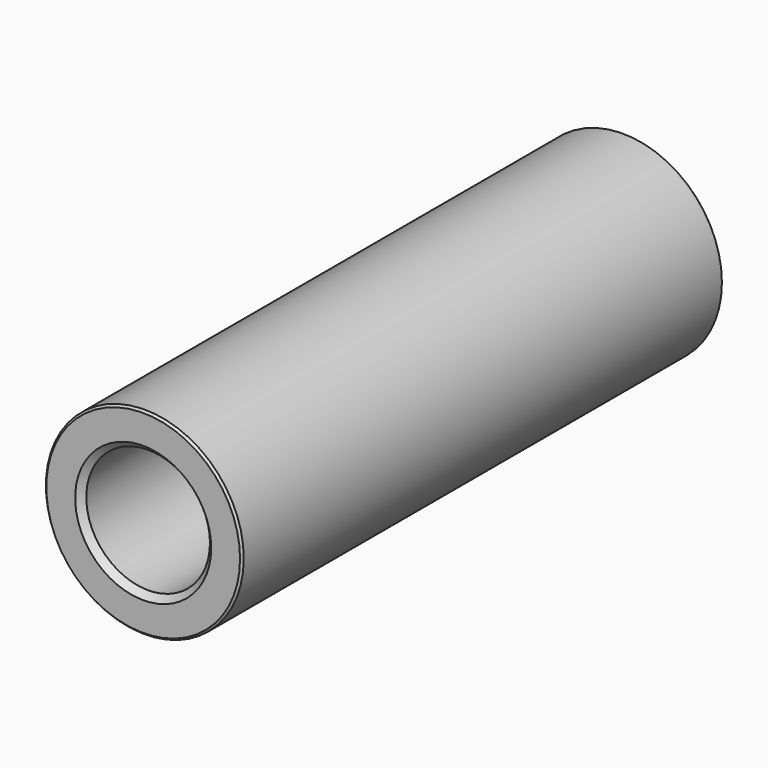
from build123d import *

# Parameters (mm, degrees)
F0_R     = 12
F0_R_2   = 7.5
F1_DEPTH = 73
F2_SIZE  = 0.25
F3_SIZE  = 0.75


with BuildPart() as f1:
    # F0 (on Front) → F1 (new body)
    with BuildSketch(Plane.XZ):
        Circle(F0_R)
        Circle(F0_R_2, mode=Mode.SUBTRACT)
    extrude(amount=F1_DEPTH)

    # F2
    f2_edges = [f1.edges().sort_by_distance(p)[0] for p in [
        (-12, -73, 0),
        (-12, 0, 0),
    ]]
    chamfer(f2_edges, length=F2_SIZE)

    # F3
    f3_edges = [f1.edges().sort_by_distance(p)[0] for p in [
        (-7.5, -73, 0),
        (-7.5, 0, 0),
    ]]
    chamfer(f3_edges, length=F3_SIZE)


solid = f1.part
